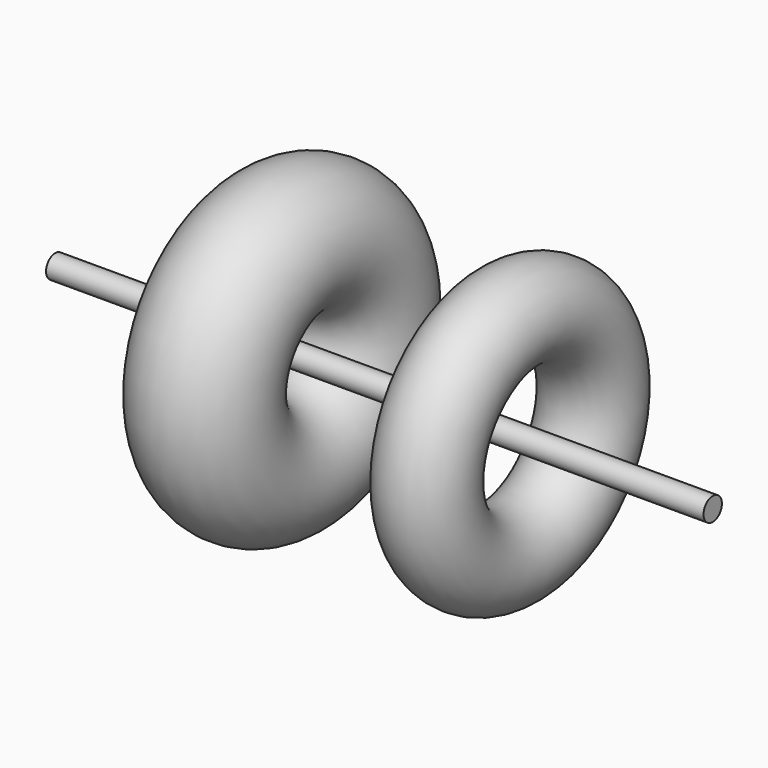
from build123d import *

# Parameters (mm, degrees)
F0_R     = 24.556156
F0_R_2   = 17.048576
F3_R     = 4.43592
F4_DEPTH = 127


with BuildPart() as f2:
    # F0 (on Top) → F2 (revolve)
    with BuildSketch(Plane.XY):
        with Locations((-39.476663, 37.311628)):
            Circle(F0_R)
        with Locations((48.657596, -40.162921)):
            Circle(F0_R_2)
    revolve(axis=Axis((2.068199, 0, 0), (1, 0, 0)))


with BuildPart() as f4:
    # F3 (on Right) → F4 (new body, symmetric)
    with BuildSketch(Plane.YZ):
        Circle(F3_R)
    extrude(amount=F4_DEPTH, both=True)


solid = Compound([f2.part, f4.part])
